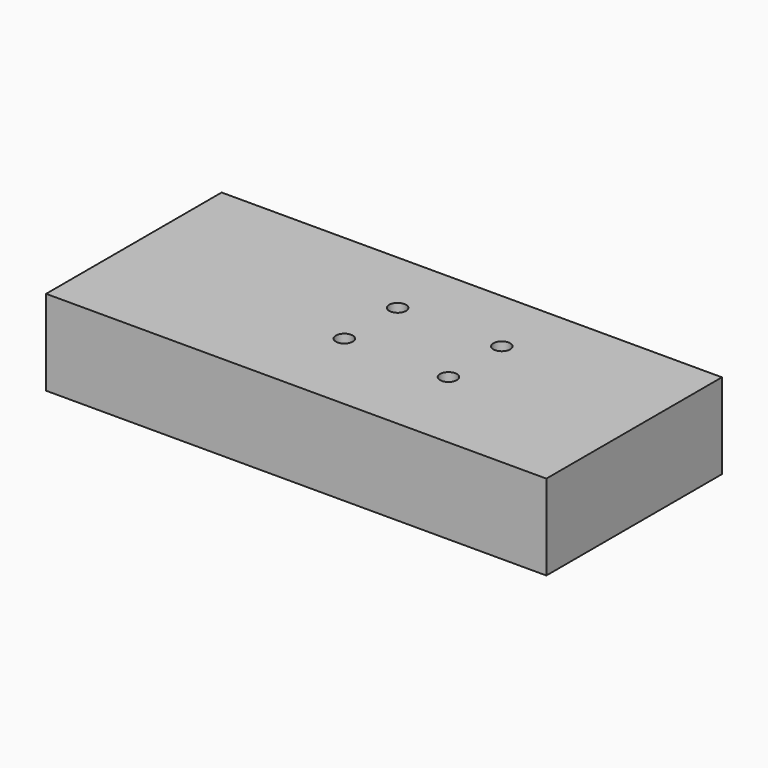
from build123d import *

# Parameters (mm, degrees)
F0_W     = 148.9261463284
F0_H     = 65.3220945969
F1_DEPTH = 25.4
F3_D     = 5


with BuildPart() as f1:
    # F0 (on Top) → F1 (new body)
    with BuildSketch(Plane.XY):
        with Locations((-31.818587333, -19.7649816982)):
            Rectangle(F0_W, F0_H)
    extrude(amount=F1_DEPTH)

    # F3 (through all)
    with Locations(Plane(origin=(0, 0, 0), x_dir=(1, 0, 0), z_dir=(0, 0, -1))):
        with Locations((-7.0573575795, 26.7230160534), (-7.0573575795, 6.8947589025), (-38.0628407001, 26.7230160534), (-38.0628407001, 6.8947589025)):
            Hole(F3_D / 2)


solid = f1.part
